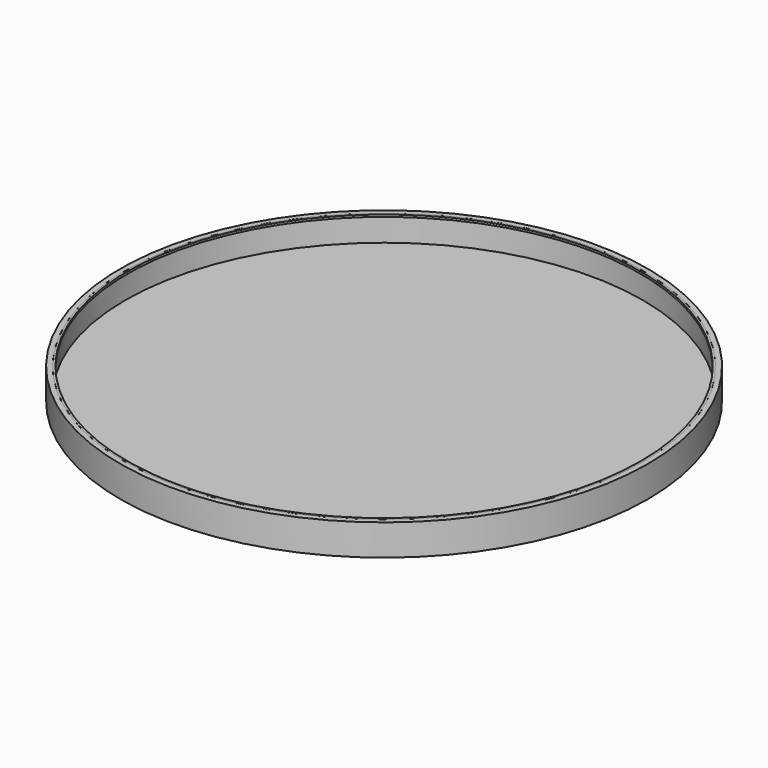
from build123d import *

# Parameters (mm, degrees)
F0_R     = 50
F0_R_2   = 49.6
F1_DEPTH = 1
F0_R_3   = 51
F2_DEPTH = 6
F4_DEPTH = 0.4
F5_DEPTH = 50
F6_SIZE  = 0.2


with BuildPart() as f1:
    # F0 (on Top) → F1 (new body)
    with BuildSketch(Plane.XY):
        Circle(F0_R)
        Circle(F0_R_2, mode=Mode.SUBTRACT)
        Circle(F0_R_2)
    extrude(amount=F1_DEPTH)

    # F0 (on Top) → F2 (join)
    with BuildSketch(Plane.XY):
        Circle(F0_R_3)
        Circle(F0_R, mode=Mode.SUBTRACT)
    extrude(amount=F2_DEPTH)

    # F3 (on face) → F5 (cut)
    with BuildSketch(Plane.XY.offset(6)):
        with BuildLine():
            ThreePointArc((4.4139684178, 49.4032072117), (36.5998144362, 33.4755669592), (49.6, 0))
            ThreePointArc((49.6, 0), (36.5998144362, -33.4755669592), (4.4139684178, -49.4032072117))
            Line((4.4139684178, -49.4032072117), (4.4139684178, -54.8225946377))
            ThreePointArc((4.4139684178, -54.8225946377), (40.4213326288, -37.2976657247), (55, 0))
            ThreePointArc((55, 0), (40.4213326288, 37.2976657247), (4.4139684178, 54.8225946377))
            Line((4.4139684178, 54.8225946377), (4.4139684178, 49.4032072117))
        make_face()
        with BuildLine():
            ThreePointArc((-5.5685285479, 49.2864229764), (-0.5802257431, 49.5966061146), (4.4139684178, 49.4032072117))
            Line((4.4139684178, 49.4032072117), (4.4139684178, 54.8225946377))
            ThreePointArc((4.4139684178, 54.8225946377), (-0.5796722281, 54.9969451889), (-5.5685285479, 54.7173783163))
            Line((-5.5685285479, 54.7173783163), (-5.5685285479, 49.2864229764))
        make_face()
        with BuildLine():
            Line((4.4139684178, -54.8225946377), (4.4139684178, -49.4032072117))
            ThreePointArc((4.4139684178, -49.4032072117), (-0.5802257431, -49.5966061146), (-5.5685285479, -49.2864229764))
            Line((-5.5685285479, -49.2864229764), (-5.5685285479, -54.7173783163))
            ThreePointArc((-5.5685285479, -54.7173783163), (-0.5796722281, -54.9969451889), (4.4139684178, -54.8225946377))
        make_face()
        with BuildLine():
            ThreePointArc((-5.5685285479, -49.2864229764), (-49.6, 0), (-5.5685285479, 49.2864229764))
            Line((-5.5685285479, 49.2864229764), (-5.5685285479, 54.7173783163))
            ThreePointArc((-5.5685285479, 54.7173783163), (-55, 0), (-5.5685285479, -54.7173783163))
            Line((-5.5685285479, -54.7173783163), (-5.5685285479, -49.2864229764))
        make_face()
        with BuildLine():
            Line((4.4139684178, 76.1056467891), (4.4139684178, 54.8225946377))
            ThreePointArc((4.4139684178, 54.8225946377), (40.4213326288, 37.2976657247), (55, 0))
            ThreePointArc((55, 0), (40.4213326288, -37.2976657247), (4.4139684178, -54.8225946377))
            Line((4.4139684178, -54.8225946377), (4.4139684178, -67.0049488544))
            Line((4.4139684178, -67.0049488544), (60.477912426, -67.0049488544))
            Line((60.477912426, -67.0049488544), (60.477912426, 76.1056467891))
            Line((60.477912426, 76.1056467891), (4.4139684178, 76.1056467891))
        make_face()
        with BuildLine():
            ThreePointArc((-5.5685285479, -54.7173783163), (-55, 0), (-5.5685285479, 54.7173783163))
            Line((-5.5685285479, 54.7173783163), (-5.5685285479, 65.7780617476))
            Line((-5.5685285479, 65.7780617476), (-59.7644932568, 65.7780617476))
            Line((-59.7644932568, 65.7780617476), (-59.7644932568, -64.7708252072))
            Line((-59.7644932568, -64.7708252072), (-5.5685285479, -64.7708252072))
            Line((-5.5685285479, -64.7708252072), (-5.5685285479, -54.7173783163))
        make_face()
    extrude(amount=F5_DEPTH, mode=Mode.SUBTRACT)


with BuildPart() as f4:
    # F3 (on face) → F4 (new body)
    with BuildSketch(Plane.XY.offset(6)):
        with BuildLine():
            ThreePointArc((-5.5685285479, 49.2864229764), (-0.5802257431, 49.5966061146), (4.4139684178, 49.4032072117))
            Line((4.4139684178, 49.4032072117), (4.4139684178, 49.8047877498))
            ThreePointArc((4.4139684178, 49.8047877498), (-0.5801784402, 49.9966338165), (-5.5685285479, 49.6889473607))
            Line((-5.5685285479, 49.6889473607), (-5.5685285479, 49.2864229764))
        make_face()
        with BuildLine():
            ThreePointArc((-5.5685285479, -49.2864229764), (-49.6, 0), (-5.5685285479, 49.2864229764))
            Line((-5.5685285479, 49.2864229764), (-5.5685285479, 49.6889473607))
            ThreePointArc((-5.5685285479, 49.6889473607), (-50, 0), (-5.5685285479, -49.6889473607))
            Line((-5.5685285479, -49.6889473607), (-5.5685285479, -49.2864229764))
        make_face()
        with BuildLine():
            Line((4.4139684178, -49.8047877498), (4.4139684178, -49.4032072117))
            ThreePointArc((4.4139684178, -49.4032072117), (-0.5802257431, -49.5966061146), (-5.5685285479, -49.2864229764))
            Line((-5.5685285479, -49.2864229764), (-5.5685285479, -49.6889473607))
            ThreePointArc((-5.5685285479, -49.6889473607), (-0.5801784402, -49.9966338165), (4.4139684178, -49.8047877498))
        make_face()
        with BuildLine():
            ThreePointArc((4.4139684178, 49.4032072117), (36.5998144362, 33.4755669592), (49.6, 0))
            ThreePointArc((49.6, 0), (36.5998144362, -33.4755669592), (4.4139684178, -49.4032072117))
            Line((4.4139684178, -49.4032072117), (4.4139684178, -49.8047877498))
            ThreePointArc((4.4139684178, -49.8047877498), (36.8829121741, -33.7587142758), (50, 0))
            ThreePointArc((50, 0), (36.8829121741, 33.7587142758), (4.4139684178, 49.8047877498))
            Line((4.4139684178, 49.8047877498), (4.4139684178, 49.4032072117))
        make_face()
    extrude(amount=-F4_DEPTH)

    # F6
    f6_edges = [f4.edges().sort_by_distance(p)[0] for p in [
        (-4.413968, 49.804788, 5.6),
    ]]
    chamfer(f6_edges, length=F6_SIZE)


solid = Compound([f1.part, f4.part])
